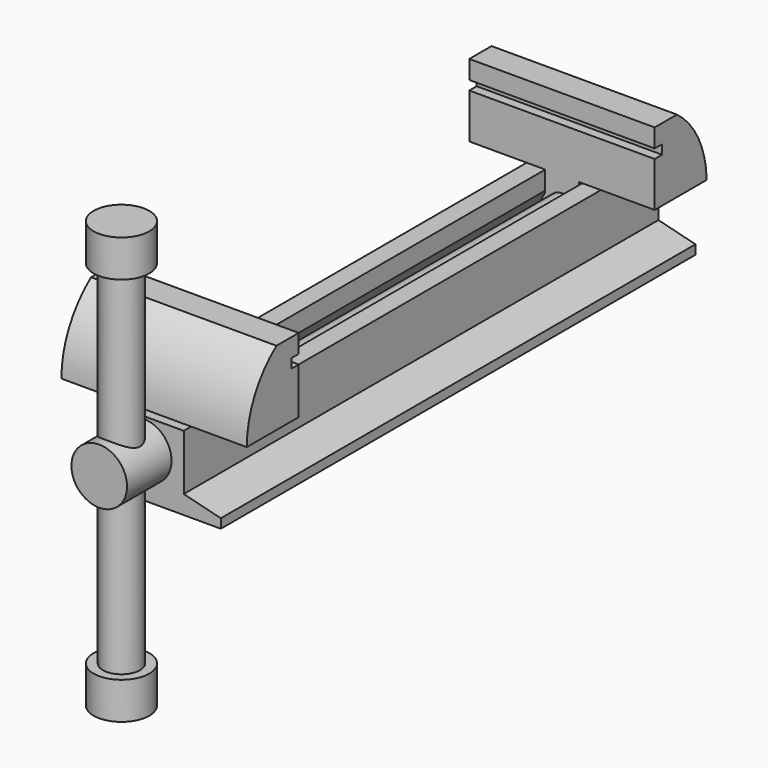
from build123d import *

# Parameters (mm, degrees)
F1_DEPTH       = 101.6
F2_R           = 4.7625
F3_DEPTH       = 203.2
F4_R           = 4.7625
F5_DEPTH       = 177.8
F7_DEPTH       = 31.75
F9_DEPTH       = 25.4
F11_DEPTH      = 31.75
F12_R          = 4.7625
F13_DEPTH      = 203.201
F15_R          = 4.7625
F16_DEPTH      = 204.47
F17_R          = 9.525
F18_DEPTH      = 19.05
F19_R          = 6.35
F20_DEPTH      = 25.4
F21_DEPTH      = 50.8
F21_DEPTH_BACK = 69.85
F22_R          = 9.525
F22_R_2        = 6.35
F23_DEPTH      = 12.7
F24_R          = 9.525
F24_R_2        = 6.35
F25_DEPTH      = 12.7


with BuildPart() as f1:
    # F0 (on Front) → F1 (new body, symmetric)
    with BuildSketch(Plane.XZ):
        Polygon((12.7, 25.4), (-12.7, 25.4), (-12.7, 6.35), (-25.4, 3.175), (-25.4, 0), (-12.7, 0), (12.7, 0), (25.4, 0), (25.4, 3.175), (12.7, 6.35), align=None)
    extrude(amount=F1_DEPTH, both=True)

    # F2 (on face) → F3 (cut, through all)
    with BuildSketch(Plane.XZ.offset(101.6)):
        with Locations((0, 15.875)):
            Circle(F2_R)
    extrude(amount=-F3_DEPTH, mode=Mode.SUBTRACT)

    # F4 (on face) → F5 (cut)
    with BuildSketch(Plane(origin=(0, 101.6, 0), x_dir=(-1, 0, 0), z_dir=(0, 1, 0))):
        Polygon((6.35, 19.05), (6.35, 25.4), (-6.35, 25.4), (-6.35, 19.05), (-9.525, 12.7), (-9.525, 6.35), (0, 3.175), (9.525, 6.35), (9.525, 12.7), align=None)
        with Locations((0, 15.875)):
            Circle(F4_R, mode=Mode.SUBTRACT)
    extrude(amount=-F5_DEPTH, mode=Mode.SUBTRACT)

    # F6 (on Right) → F7 (join, symmetric)
    with BuildSketch(Plane.YZ):
        with BuildLine():
            Line((-98.425, 25.4), (-76.2, 25.4))
            Line((-76.2, 25.4), (-76.2, 41.275))
            Line((-76.2, 41.275), (-79.375, 41.275))
            Line((-79.375, 41.275), (-79.375, 44.45))
            Line((-79.375, 44.45), (-76.2, 44.45))
            Line((-76.2, 44.45), (-76.2, 50.8))
            Line((-76.2, 50.8), (-85.725, 50.8))
            ThreePointArc((-85.725, 50.8), (-95.0730633142, 39.5990316571), (-98.425, 25.4))
        make_face()
    extrude(amount=F7_DEPTH, both=True)


with BuildPart() as f9:
    # F8 (on face) → F9 (new body)
    with BuildSketch(Plane(origin=(0, 101.6, 0), x_dir=(-1, 0, 0), z_dir=(0, 1, 0))):
        Polygon((-5.8419998417, 25.908), (-5.8419998417, 18.9300774301), (-9.0169998417, 12.5800774301), (-9.0169998417, 6.7161457978), (0, 3.7104791839), (9.0169998417, 6.7161457978), (9.0169998417, 12.5800774301), (5.8419998417, 18.9300774301), (5.8419998417, 25.908), align=None)
    extrude(amount=-F9_DEPTH)

    # F10 (on Right) → F11 (join, symmetric)
    with BuildSketch(Plane.YZ):
        with BuildLine():
            Line((76.2, 41.275), (76.2, 25.908))
            Line((76.2, 25.908), (98.425, 25.908))
            ThreePointArc((98.425, 25.908), (94.9608031366, 39.8263485391), (85.725, 50.8))
            Line((85.725, 50.8), (76.2, 50.8))
            Line((76.2, 50.8), (76.2, 44.45))
            Line((76.2, 44.45), (79.375, 44.45))
            Line((79.375, 44.45), (79.375, 41.275))
            Line((79.375, 41.275), (76.2, 41.275))
        make_face()
    extrude(amount=F11_DEPTH, both=True)

    # F12 (on face) → F13 (cut, through all)
    with BuildSketch(Plane(origin=(0, 101.6, 0), x_dir=(-1, 0, 0), z_dir=(0, 1, 0))):
        with Locations((0, 15.875)):
            Circle(F12_R)
    extrude(amount=-F13_DEPTH, mode=Mode.SUBTRACT)


with BuildPart() as f16:
    # F15 (on offset) → F16 (new body, through all)
    with BuildSketch(Plane.XZ.offset(102.87)):
        with Locations((0, 15.875)):
            Circle(F15_R)
    extrude(amount=-F16_DEPTH)

    # F17 (on offset) → F18 (join)
    with BuildSketch(Plane.XZ.offset(102.87)):
        with Locations((0, 15.875)):
            Circle(F17_R)
    extrude(amount=F18_DEPTH)

    # F19 (on face) → F20 (cut)
    with BuildSketch(Plane.XY.offset(25.4)):
        with Locations((0, -112.395)):
            Circle(F19_R)
    extrude(amount=-F20_DEPTH, mode=Mode.SUBTRACT)


with BuildPart() as f21:
    # F19 (on face) → F21 (new body, two sides)
    with BuildSketch(Plane.XY.offset(25.4)) as f21_sk:
        with Locations((0, -112.395)):
            Circle(F19_R)
    extrude(amount=F21_DEPTH)
    extrude(f21_sk.sketch, amount=-F21_DEPTH_BACK)

    # F22 (on face) → F23 (join)
    with BuildSketch(Plane.XY.offset(76.2)):
        with Locations((0, -112.395)):
            Circle(F22_R)
        with Locations((0, -112.395)):
            Circle(F22_R_2, mode=Mode.SUBTRACT)
        with Locations((0, -112.395)):
            Circle(F22_R_2)
    extrude(amount=F23_DEPTH)

    # F24 (on face) → F25 (join)
    with BuildSketch(Plane(origin=(0, 0, -44.45), x_dir=(1, 0, 0), z_dir=(0, 0, -1))):
        with Locations((0, 112.395)):
            Circle(F24_R)
        with Locations((0, 112.395)):
            Circle(F24_R_2, mode=Mode.SUBTRACT)
        with Locations((0, 112.395)):
            Circle(F24_R_2)
    extrude(amount=F25_DEPTH)


solid = Compound([f1.part, f9.part, f16.part, f21.part])
